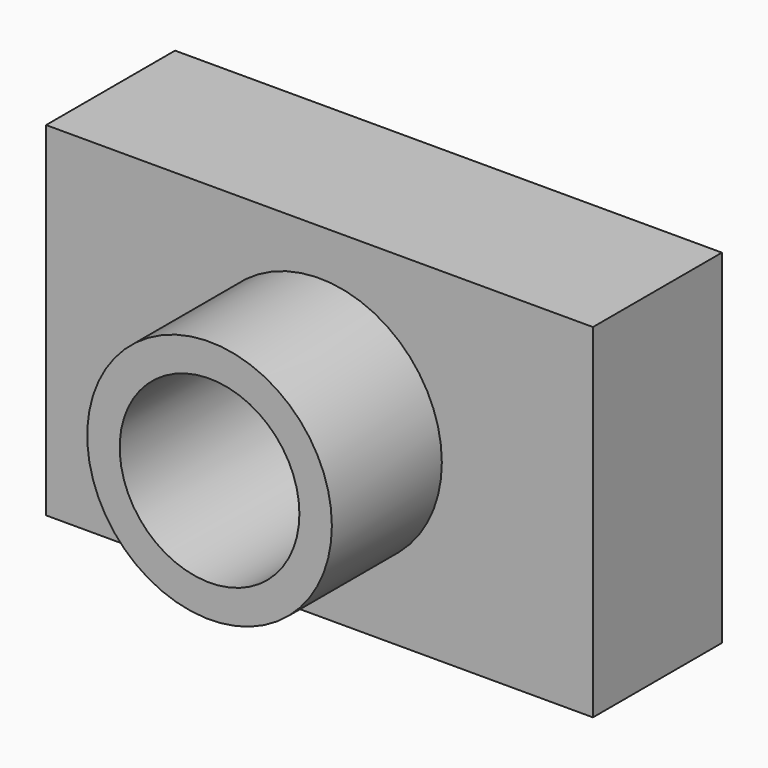
from build123d import *

# Parameters (mm, degrees)
F0_W     = 101.05566
F0_H     = 29.790164
F1_DEPTH = 63.5
F2_R     = 22.602142
F3_DEPTH = 25.4
F4_R     = 16.601085
F5_DEPTH = 55.191165


with BuildPart() as f1:
    # F0 (on Top) → F1 (new body)
    with BuildSketch(Plane.XY):
        Rectangle(F0_W, F0_H)
    extrude(amount=F1_DEPTH)

    # F2 (on face) → F3 (join)
    with BuildSketch(Plane.XZ.offset(14.895082)):
        with Locations((0, 32.410629)):
            Circle(F2_R)
    extrude(amount=F3_DEPTH)

    # F4 (on face) → F5 (cut, through all)
    with BuildSketch(Plane.XZ.offset(40.295082)):
        with Locations((0, 32.410629)):
            Circle(F4_R)
    extrude(amount=-F5_DEPTH, mode=Mode.SUBTRACT)


solid = f1.part
